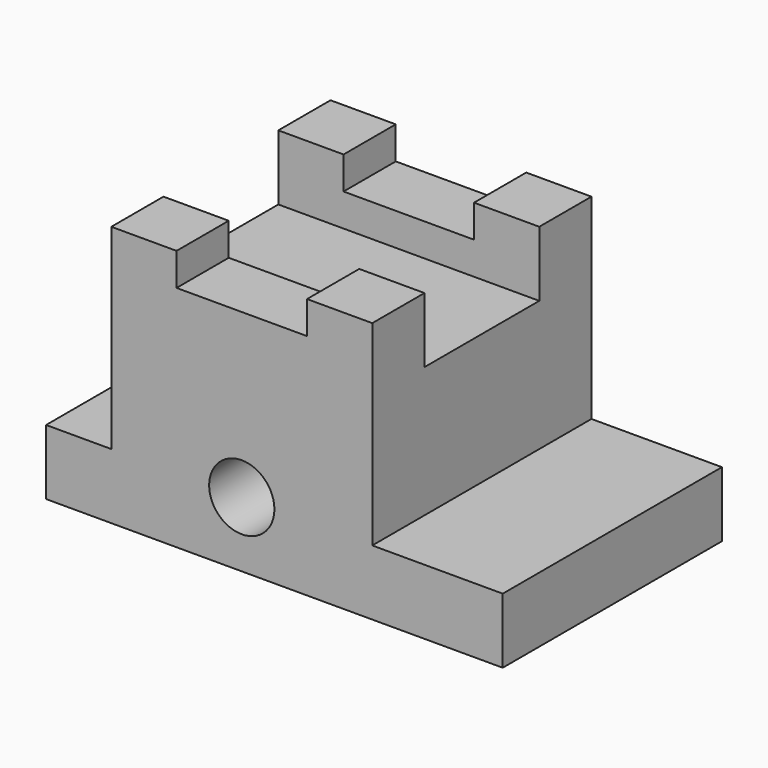
from build123d import *

# Parameters (mm, degrees)
F0_W      = 88.9
F0_H      = 38.1
F1_DEPTH  = 53.34
F2_W      = 12.7
F2_H      = 25.4
F3_DEPTH  = 53.341
F4_W      = 25.4
F4_H      = 25.4
F5_DEPTH  = 53.341
F6_W      = 50.8
F6_H      = 12.7
F7_DEPTH  = 6.35
F9_W      = 12.7
F9_H      = 12.7
F8_W      = 12.7
F8_H      = 12.7
F10_DEPTH = 6.35
F11_R     = 6.35
F12_DEPTH = 53.341


with BuildPart() as f1:
    # F0 (on Front) → F1 (new body)
    with BuildSketch(Plane.XZ):
        Rectangle(F0_W, F0_H)
    extrude(amount=F1_DEPTH)

    # F2 (on face) → F3 (cut, through all)
    with BuildSketch(Plane.XZ.offset(53.34)):
        with Locations((-38.1, 6.35)):
            Rectangle(F2_W, F2_H)
    extrude(amount=-F3_DEPTH, mode=Mode.SUBTRACT)

    # F4 (on face) → F5 (cut, through all)
    with BuildSketch(Plane.XZ.offset(53.34)):
        with Locations((31.75, 6.35)):
            Rectangle(F4_W, F4_H)
    extrude(amount=-F5_DEPTH, mode=Mode.SUBTRACT)

    # F6 (on face) → F7 (join)
    with BuildSketch(Plane.XY.offset(19.05)):
        with Locations((-6.35, -6.35)):
            Rectangle(F6_W, F6_H)
        with Locations((-6.35, -46.99)):
            Rectangle(F6_W, F6_H)
    extrude(amount=F7_DEPTH)

    # F9 (on face) + F8 (on face) → F10 (join)
    with BuildSketch(Plane.XY.offset(25.4)):
        with Locations((-25.4, -46.99)):
            Rectangle(F9_W, F9_H)
        with Locations((12.7, -46.99)):
            Rectangle(F9_W, F9_H)
    with BuildSketch(Plane.XY.offset(25.4)):
        with Locations((-25.4, -6.35)):
            Rectangle(F8_W, F8_H)
        with Locations((12.7, -6.35)):
            Rectangle(F8_W, F8_H)
    extrude(amount=F10_DEPTH)

    # F11 (on face) → F12 (cut, through all)
    with BuildSketch(Plane.XZ.offset(53.34)):
        with Locations((-6.35, -6.35)):
            Circle(F11_R)
    extrude(amount=-F12_DEPTH, mode=Mode.SUBTRACT)


solid = f1.part
